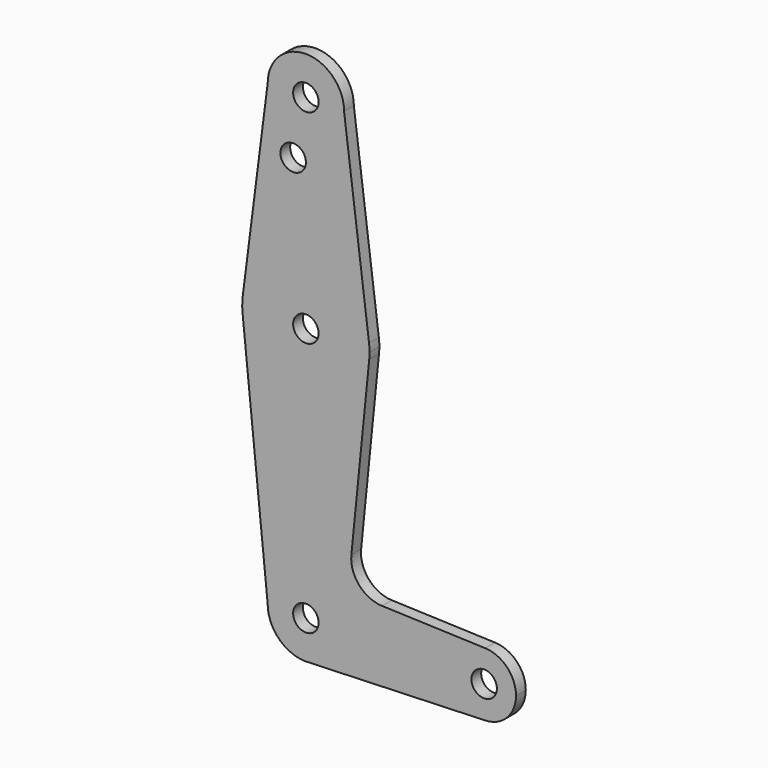
from build123d import *

# Parameters (mm, degrees)
F0_R     = 3.175
F1_DEPTH = 3.048


with BuildPart() as f1:
    # F0 (on Front) → F1 (new body)
    with BuildSketch(Plane.XZ):
        with BuildLine():
            Line((15.747457, 65.508289), (9.525, 114.3))
            ThreePointArc((9.525, 114.3), (0, 104.775), (-9.525, 114.3))
            Line((-9.525, 114.3), (-15.747457, 65.508289))
            ThreePointArc((-15.747457, 65.508289), (0, 79.375), (15.747457, 65.508289))
        make_face()
        with Locations((-3.175, 100.0252)):
            Circle(F0_R, mode=Mode.SUBTRACT)
        with BuildLine():
            ThreePointArc((-9.525, 114.3), (0, 104.775), (9.525, 114.3))
            ThreePointArc((9.525, 114.3), (0, 123.825), (-9.525, 114.3))
        make_face()
        with Locations((0, 114.3)):
            Circle(F0_R, mode=Mode.SUBTRACT)
        with BuildLine():
            ThreePointArc((15.875, 63.5), (15.843082, 64.506168), (15.747457, 65.508289))
            ThreePointArc((15.747457, 65.508289), (0, 79.375), (-15.747457, 65.508289))
            ThreePointArc((-15.747457, 65.508289), (-15.873668, 63.705667), (-15.794203, 61.90038))
            ThreePointArc((-15.794203, 61.90038), (0.006091, 47.625001), (15.795426, 61.9125))
            ThreePointArc((15.795426, 61.9125), (15.855094, 62.705253), (15.875, 63.5))
        make_face()
        with Locations((0, 63.5)):
            Circle(F0_R, mode=Mode.SUBTRACT)
        with BuildLine():
            ThreePointArc((15.795426, 61.9125), (0.006091, 47.625001), (-15.794203, 61.90038))
            Line((-15.794203, 61.90038), (-9.525, 0))
            ThreePointArc((-9.525, 0), (0, 9.525), (9.525, 0))
            ThreePointArc((9.525, 0), (6.970557, -6.491299), (0.677344, -9.500886))
            Line((0.677344, -9.500886), (44.732405, -7.932475))
            ThreePointArc((44.732405, -7.932475), (36.5125, 0.000539), (44.733482, 7.932436))
            Line((44.733482, 7.932436), (18.9676, 8.853234))
            ThreePointArc((18.9676, 8.853234), (13.2612, 11.571359), (11.341187, 17.593382))
            Line((11.341187, 17.593382), (15.795426, 61.9125))
        make_face()
        with BuildLine():
            ThreePointArc((9.525, 0), (0, 9.525), (-9.525, 0))
            ThreePointArc((-9.525, 0), (-6.735192, -6.735192), (0, -9.525))
            Line((0, -9.525), (0.677344, -9.500886))
            ThreePointArc((0.677344, -9.500886), (6.970557, -6.491299), (9.525, 0))
        make_face()
        Circle(F0_R, mode=Mode.SUBTRACT)
        with BuildLine():
            ThreePointArc((52.3875, 0), (50.162007, 5.511523), (44.733482, 7.932436))
            ThreePointArc((44.733482, 7.932436), (36.5125, 0.000539), (44.732405, -7.932475))
            ThreePointArc((44.732405, -7.932475), (50.161633, -5.51191), (52.3875, 0))
        make_face()
        with Locations((44.45, 0)):
            Circle(F0_R, mode=Mode.SUBTRACT)
    extrude(amount=F1_DEPTH)


solid = f1.part
